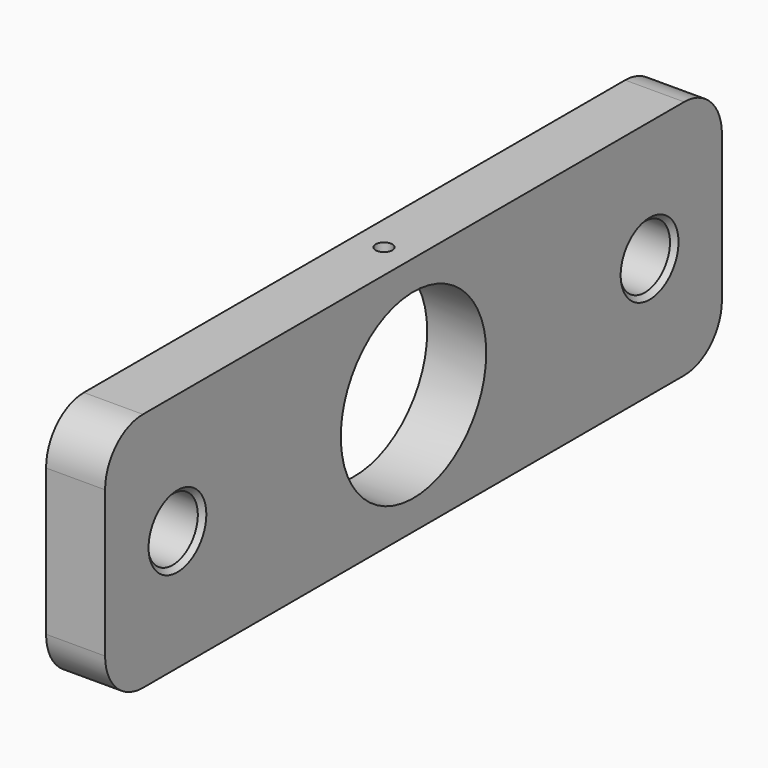
from build123d import *

# Parameters (mm, degrees)
F0_W     = 82.9564
F0_H     = 25.908
F0_R     = 3.3782
F0_R_2   = 9.779
F1_DEPTH = 6.35
F3_R     = 5.08
F4_SIZE  = 0.508
F2_R     = 0.889
F5_DEPTH = 3.2164930276


with BuildPart() as f1:
    # F0 (on Right) → F1 (new body)
    with BuildSketch(Plane.YZ):
        Rectangle(F0_W, F0_H)
        with Locations((-31.75, 0)):
            Circle(F0_R, mode=Mode.SUBTRACT)
        Circle(F0_R_2, mode=Mode.SUBTRACT)
        with Locations((31.75, 0)):
            Circle(F0_R, mode=Mode.SUBTRACT)
    extrude(amount=F1_DEPTH)

    # F3
    f3_edges = [f1.edges().sort_by_distance(p)[0] for p in [
        (3.175, -41.4782, 12.954),
        (3.175, 41.4782, 12.954),
        (3.175, 41.4782, -12.954),
        (3.175, -41.4782, -12.954),
    ]]
    fillet(f3_edges, radius=F3_R)

    # F4
    f4_edges = [f1.edges().sort_by_distance(p)[0] for p in [
        (0, 28.3718, 0),
        (6.35, 28.3718, 0),
        (0, -35.1282, 0),
        (6.35, -35.1282, 0),
    ]]
    chamfer(f4_edges, length=F4_SIZE)

    # F2 (on face) → F5 (cut, through all)
    with BuildSketch(Plane.XY.offset(12.954)):
        with Locations((3.175, 0)):
            Circle(F2_R)
    extrude(amount=-F5_DEPTH, mode=Mode.SUBTRACT)


solid = f1.part
